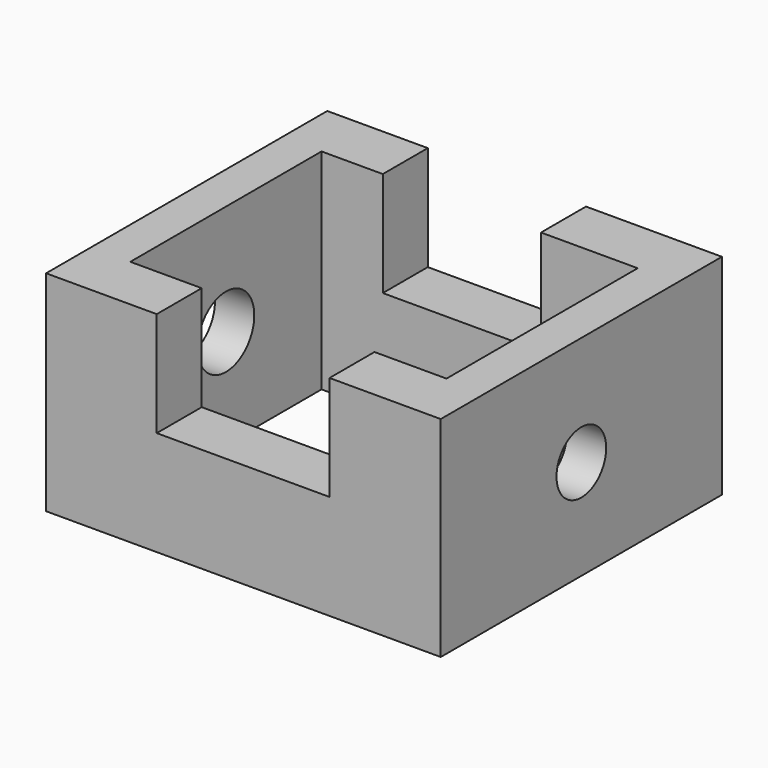
from build123d import *

# Parameters (mm, degrees)
F0_W      = 95.6981405616
F0_H      = 85.2225497365
F0_W_2    = 76.6617953777
F0_H_2    = 57.9620860517
F1_DEPTH  = 50.8
F2_W      = 41.8984405696
F2_H      = 13.6302318424
F4_DEPTH  = 25.4
F5_W      = 38.359541446
F5_H      = 13.6302318424
F6_DEPTH  = 25.4
F7_R      = 7.5298291719
F8_DEPTH  = 38.1
F9_R      = 7.8998800408
F10_DEPTH = 38.1
F11_R     = 8.5919528165
F12_DEPTH = 25.4


with BuildPart() as f1:
    # F0 (on Top) → F1 (new body)
    with BuildSketch(Plane.XY):
        Rectangle(F0_W, F0_H)
        Rectangle(F0_W_2, F0_H_2, mode=Mode.SUBTRACT)
    extrude(amount=F1_DEPTH)

    # F2 (on face) → F4 (cut)
    with BuildSketch(Plane.XY.offset(50.8)):
        with Locations((-0.0701360404, -35.7961589471)):
            Rectangle(F2_W, F2_H)
    extrude(amount=-F4_DEPTH, mode=Mode.SUBTRACT)

    # F5 (on face) → F6 (cut)
    with BuildSketch(Plane.XY.offset(50.8)):
        with Locations((-4.2936895043, 35.7961589471)):
            Rectangle(F5_W, F5_H)
    extrude(amount=-F6_DEPTH, mode=Mode.SUBTRACT)

    # F7 (on face) → F8 (cut)
    with BuildSketch(Plane.YZ.offset(47.8490702808)):
        with Locations((0, 24.2426600307)):
            Circle(F7_R)
    extrude(amount=-F8_DEPTH, mode=Mode.SUBTRACT)

    # F9 (on face) → F10 (cut)
    with BuildSketch(Plane(origin=(-47.8490702808, 0, 0), x_dir=(0, -1, 0), z_dir=(-1, 0, 0))):
        with Locations((0, 24.427017197)):
            Circle(F9_R)
    extrude(amount=F10_DEPTH, mode=Mode.SUBTRACT)

    # F11 (on face) → F12 (cut)
    with BuildSketch(Plane(origin=(-47.8490702808, 0, 0), x_dir=(0, -1, 0), z_dir=(-1, 0, 0))):
        with Locations((0, 24.0862686187)):
            Circle(F11_R)
    extrude(amount=-F12_DEPTH, mode=Mode.SUBTRACT)


solid = f1.part
